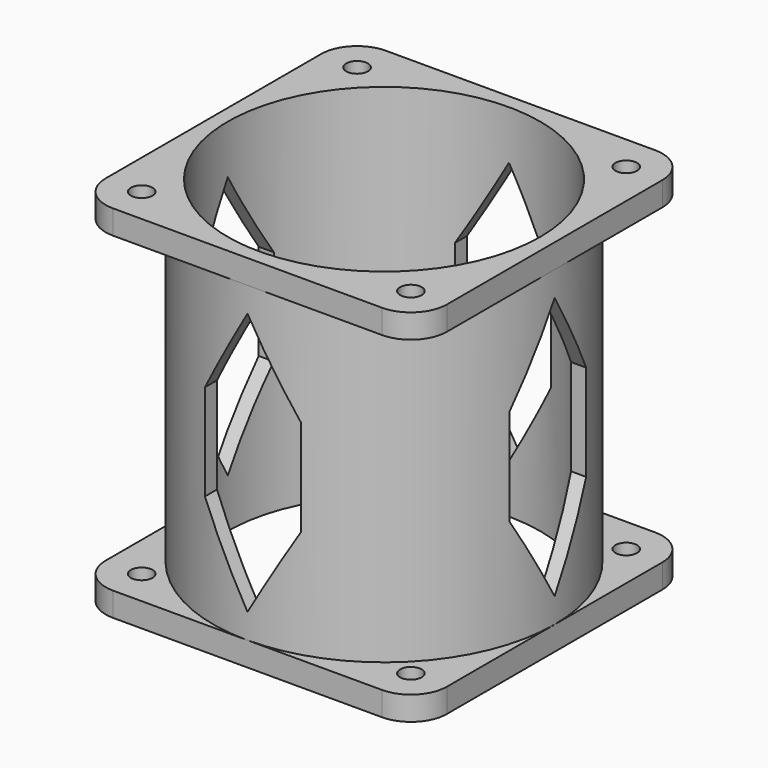
from build123d import *

# Parameters (mm, degrees)
SKETCH_R           = 35.5
SKETCH_R_2         = 32.5
PAD_DEPTH          = 75
SKETCH001_R        = 2.25
SKETCH001_R_2      = 35
PAD001_DEPTH       = 5
SKETCH002_R        = 2.25
SKETCH002_R_2      = 35
PAD002_DEPTH       = 5
POCKET_DEPTH       = 286.156142
POCKET_DEPTH_BACK  = 286.156142
POLARPATTERN_COUNT = 2
POLARPATTERN_ANGLE = 90


with BuildPart() as part:
    # Sketch → Pad (new body)
    with BuildSketch(Plane.XY):
        Circle(SKETCH_R)
        Circle(SKETCH_R_2, mode=Mode.SUBTRACT)
    extrude(amount=PAD_DEPTH)

    # Sketch001 → Pad001 (join)
    with BuildSketch(Plane.XY):
        with BuildLine():
            Line((-28, 35.5), (28, 35.5))
            ThreePointArc((35.5, 28), (33.303301, 33.303301), (28, 35.5))
            Line((35.5, 28), (35.5, -28))
            ThreePointArc((28, -35.5), (33.303301, -33.303301), (35.5, -28))
            Line((28, -35.5), (-28, -35.5))
            ThreePointArc((-35.5, -28), (-33.303301, -33.303301), (-28, -35.5))
            Line((-35.5, -28), (-35.5, 28))
            ThreePointArc((-28, 35.5), (-33.303301, 33.303301), (-35.5, 28))
        make_face()
        with Locations((-28, 28)):
            Circle(SKETCH001_R, mode=Mode.SUBTRACT)
        with Locations((28, 28)):
            Circle(SKETCH001_R, mode=Mode.SUBTRACT)
        with Locations((28, -28)):
            Circle(SKETCH001_R, mode=Mode.SUBTRACT)
        with Locations((-28, -28)):
            Circle(SKETCH001_R, mode=Mode.SUBTRACT)
        Circle(SKETCH001_R_2, mode=Mode.SUBTRACT)
    extrude(amount=PAD001_DEPTH)

    # Sketch002 → Pad002 (join)
    with BuildSketch(Plane.XY.offset(70)):
        with BuildLine():
            Line((-28, 35.5), (28, 35.5))
            ThreePointArc((35.5, 28), (33.303301, 33.303301), (28, 35.5))
            Line((35.5, 28), (35.5, -28))
            ThreePointArc((28, -35.5), (33.303301, -33.303301), (35.5, -28))
            Line((28, -35.5), (-28, -35.5))
            ThreePointArc((-35.5, -28), (-33.303301, -33.303301), (-28, -35.5))
            Line((-35.5, -28), (-35.5, 28))
            ThreePointArc((-28, 35.5), (-33.303301, 33.303301), (-35.5, 28))
        make_face()
        with Locations((-28, 28)):
            Circle(SKETCH002_R, mode=Mode.SUBTRACT)
        with Locations((28, 28)):
            Circle(SKETCH002_R, mode=Mode.SUBTRACT)
        with Locations((28, -28)):
            Circle(SKETCH002_R, mode=Mode.SUBTRACT)
        with Locations((-28, -28)):
            Circle(SKETCH002_R, mode=Mode.SUBTRACT)
        Circle(SKETCH002_R_2, mode=Mode.SUBTRACT)
    extrude(amount=PAD002_DEPTH)

    # Sketch003 → Pocket (cut, two sides)
    with BuildSketch(Plane.XZ) as pocket_sk:
        Polygon((0, 64.820508), (-10, 47.5), (-10, 27.5), (0, 10.179492), (10, 27.5), (10, 47.5), align=None)
    pocket = extrude(amount=-POCKET_DEPTH, mode=Mode.SUBTRACT) + extrude(pocket_sk.sketch, amount=POCKET_DEPTH_BACK, mode=Mode.SUBTRACT)

    # PolarPattern: Pocket ×2 about axis
    polarpattern_axis = Axis((0, 0, 0), (0, 0, 1))
    for i in range(1, POLARPATTERN_COUNT):
        add(pocket.rotate(polarpattern_axis, i * POLARPATTERN_ANGLE / (POLARPATTERN_COUNT - 1)), mode=Mode.SUBTRACT)


solid = part.part
